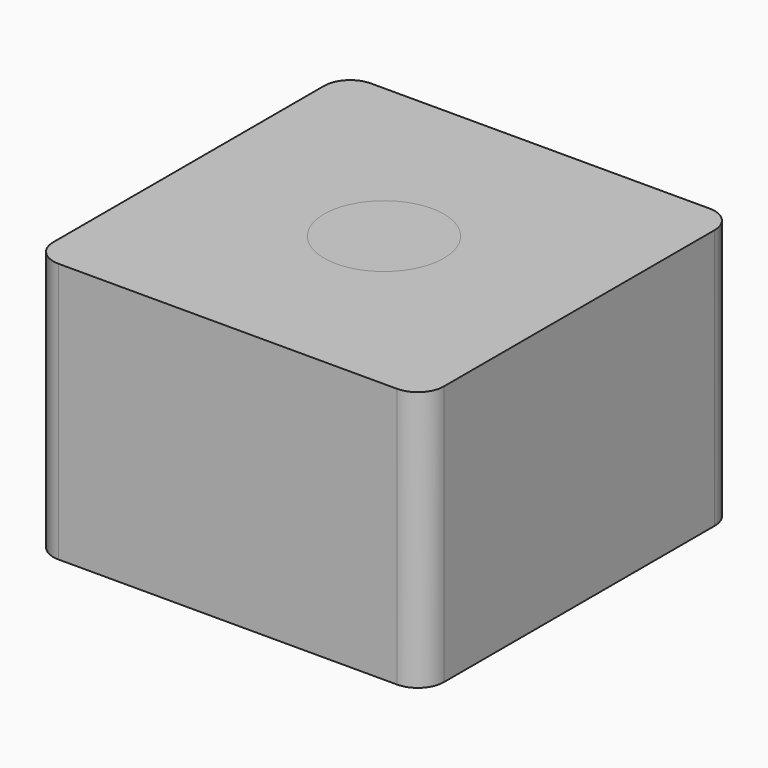
from build123d import *

# Parameters (mm, degrees)
SKETCH_W        = 15
SKETCH_H        = 15
PAD_DEPTH       = 10
SKETCH001_R     = 3.5
POCKET_DEPTH    = 4
SKETCH002_R     = 4.25
POCKET001_DEPTH = 3.1
SKETCH003_R     = 2.3
POCKET002_DEPTH = 2.901
CHAMFER_ANGLE   = 60
CHAMFER_SIZE    = 1.1
CHAMFER001_SIZE = 0.49
FILLET_R        = 1
SKETCH004_R     = 7.012338
PAD001_DEPTH    = 10


with BuildPart() as socket:
    # Sketch → Pad (new body)
    with BuildSketch(Plane.XY):
        Rectangle(SKETCH_W, SKETCH_H)
    extrude(amount=PAD_DEPTH)

    # Sketch001 (on Face5 of Pad) → Pocket (cut)
    with BuildSketch(Plane(origin=(0, 0, 0), x_dir=(1, 0, 0), z_dir=(0, 0, -1))):
        Circle(SKETCH001_R)
    extrude(amount=-POCKET_DEPTH, mode=Mode.SUBTRACT)

    # Sketch002 (on Face8 of Pocket) → Pocket001 (cut)
    with BuildSketch(Plane(origin=(0, 0, 4), x_dir=(1, 0, 0), z_dir=(0, 0, -1))):
        Circle(SKETCH002_R)
    extrude(amount=-POCKET001_DEPTH, mode=Mode.SUBTRACT)

    # Sketch003 (on Face10 of Pocket001) → Pocket002 (cut, through all)
    with BuildSketch(Plane(origin=(0, 0, 7.1), x_dir=(1, 0, 0), z_dir=(0, 0, -1))):
        Circle(SKETCH003_R)
    extrude(amount=-POCKET002_DEPTH, mode=Mode.SUBTRACT)

    # Chamfer
    chamfer_edges = [socket.edges().sort_by_distance(p)[0] for p in [
        (-2.3, 0, 7.1),
    ]]
    chamfer_side = socket.faces().sort_by_distance((-2.3, 0, 8.55))[0]
    chamfer(chamfer_edges, length=CHAMFER_SIZE, angle=CHAMFER_ANGLE, reference=chamfer_side)

    # Chamfer001
    chamfer001_edges = [socket.edges().sort_by_distance(p)[0] for p in [
        (-3.5, 0, 4),
        (-3.5, 0, 0),
    ]]
    chamfer(chamfer001_edges, length=CHAMFER001_SIZE)

    # Fillet
    fillet_edges = [socket.edges().sort_by_distance(p)[0] for p in [
        (-7.5, -7.5, 5),
        (-7.5, 7.5, 5),
        (7.5, -7.5, 5),
        (7.5, 7.5, 5),
    ]]
    fillet(fillet_edges, radius=FILLET_R)


with BuildPart() as socket001:
    # Link base: copy of socket
    add(socket.part)


with BuildPart() as socket_cut:
    # Sketch004 → Pad001 (new body)
    with BuildSketch(Plane.XY):
        Circle(SKETCH004_R)
    extrude(amount=PAD001_DEPTH)

    # Cut: cut socket001
    add(socket001.part, mode=Mode.SUBTRACT)


solid = Compound([socket.part, socket_cut.part])
